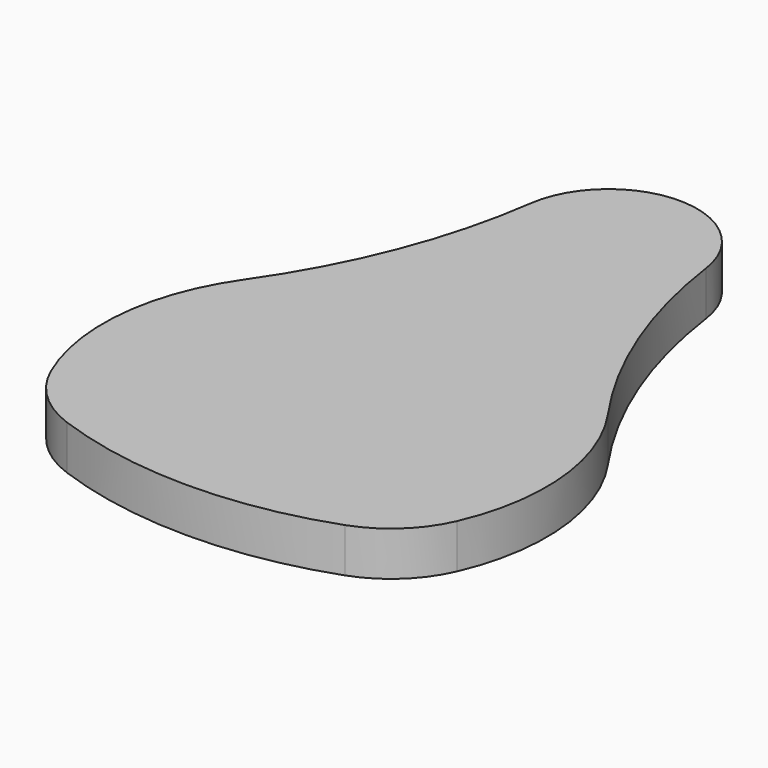
from build123d import *

# Parameters (mm, degrees)
F1_DEPTH = 25.4


with BuildPart() as f1:
    # F0 (on Top) → F1 (new body)
    with BuildSketch(Plane.XY):
        with BuildLine():
            ThreePointArc((116.3974231574, -50.7999988418), (124.3211018713, -25.94732413), (127, 0))
            ThreePointArc((127, 0), (121.171970747, 38.0309545671), (104.2227794443, 72.5714285714))
            ThreePointArc((104.2227794443, 72.5714285714), (0, 127), (-104.2227794443, 72.5714285714))
            ThreePointArc((-104.2227794443, 72.5714285714), (-126.3860979139, 12.4721391145), (-116.3974224673, -50.8000004228))
            ThreePointArc((-116.3974224673, -50.8000004228), (-83.5987115374, 32.7987112337), (0, 0))
            ThreePointArc((0, 0), (71.1723737002, 36.7605508711), (121.6987113259, -25.4))
            ThreePointArc((121.6987113259, -25.4), (120.3592623261, -38.3736617557), (116.3974231574, -50.7999988418))
        make_face()
        with BuildLine():
            ThreePointArc((0, 0), (-83.5987115374, 32.7987112337), (-116.3974224673, -50.8000004228))
            ThreePointArc((-116.3974224673, -50.8000004228), (-101.6129668627, -71.7406130321), (-79.7537895948, -85.1296291703))
            ThreePointArc((-79.7537895948, -85.1296291703), (-33.0925403585, -83.7260677515), (0, -50.8))
            ThreePointArc((0, -50.8), (-5.3012886741, -25.4), (0, 0))
        make_face()
        with BuildLine():
            ThreePointArc((5.3012886741, -25.4), (3.9618395452, -12.4263376257), (0, 0))
            ThreePointArc((0, 0), (-5.3012886741, -25.4), (0, -50.8))
            ThreePointArc((0, -50.8), (3.9618395452, -38.3736623743), (5.3012886741, -25.4))
        make_face()
        with BuildLine():
            ThreePointArc((79.7537895948, -85.1296291703), (101.6129674921, -71.7406124424), (116.3974231574, -50.7999988418))
            ThreePointArc((116.3974231574, -50.7999988418), (120.3592623261, -38.3736617557), (121.6987113259, -25.4))
            ThreePointArc((121.6987113259, -25.4), (71.1723737002, 36.7605508711), (0, 0))
            ThreePointArc((0, 0), (3.9618395452, -12.4263376257), (5.3012886741, -25.4))
            ThreePointArc((5.3012886741, -25.4), (3.9618395452, -38.3736623743), (0, -50.8))
            ThreePointArc((0, -50.8), (33.0925403585, -83.7260677515), (79.7537895948, -85.1296291703))
        make_face()
        with BuildLine():
            ThreePointArc((-79.7537895948, -85.1296291703), (0, -99.0800012402), (79.7537895948, -85.1296291703))
            ThreePointArc((79.7537895948, -85.1296291703), (33.0925403585, -83.7260677515), (0, -50.8))
            ThreePointArc((0, -50.8), (-33.0925403585, -83.7260677515), (-79.7537895948, -85.1296291703))
        make_face()
        with BuildLine():
            ThreePointArc((-104.2227794443, 72.5714285714), (0, 127), (104.2227794443, 72.5714285714))
            ThreePointArc((104.2227794443, 72.5714285714), (69.1473175054, 138.2082566307), (50.314445249, 210.2068965517))
            ThreePointArc((50.314445249, 210.2068965517), (50.678465933, 206.711850036), (50.8, 203.2))
            ThreePointArc((50.8, 203.2), (-3.511850036, 152.521534067), (-50.314445249, 210.2068965517))
            ThreePointArc((-50.314445249, 210.2068965517), (-69.1473175054, 138.2082566307), (-104.2227794443, 72.5714285714))
        make_face()
        with BuildLine():
            ThreePointArc((50.8, 203.2), (50.678465933, 206.711850036), (50.314445249, 210.2068965517))
            ThreePointArc((50.314445249, 210.2068965517), (0, 254), (-50.314445249, 210.2068965517))
            ThreePointArc((-50.314445249, 210.2068965517), (-3.511850036, 152.521534067), (50.8, 203.2))
        make_face()
    extrude(amount=F1_DEPTH)


solid = f1.part
